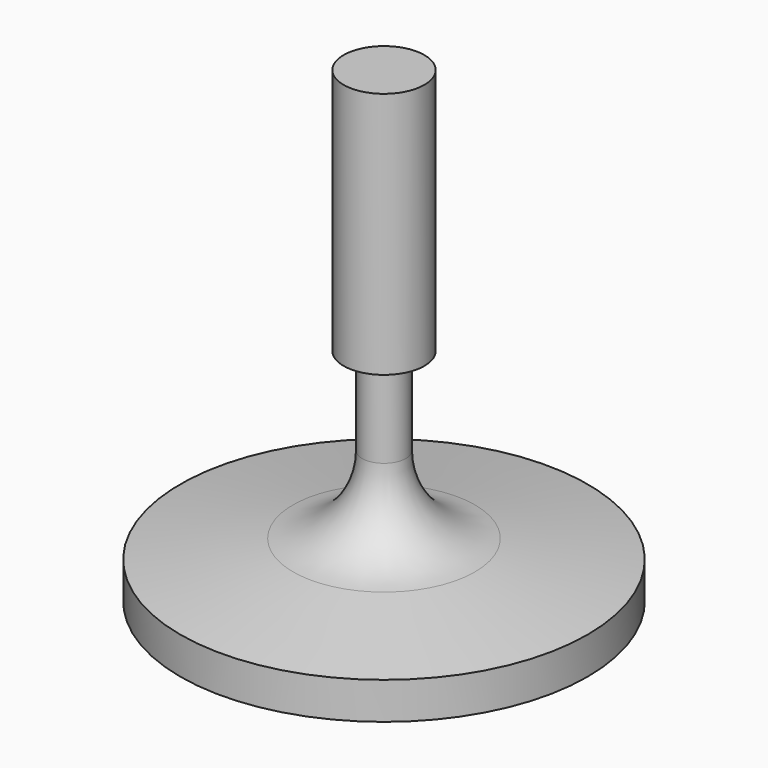
from build123d import *


with BuildPart() as f1:
    # F0 (on Front) → F1 (revolve)
    with BuildSketch(Plane.XZ):
        with BuildLine():
            Line((6.096, 70.611998), (0, 70.611998))
            Line((0, 70.611998), (0, 0))
            Line((0, 0), (30.734759, 0))
            Line((30.734759, 0), (30.734759, 5.587876))
            Line((30.734759, 5.587876), (13.716002, 8.382))
            ThreePointArc((13.716002, 8.382), (6.28337, 12.240285), (3.302001, 20.066001))
            Line((3.302001, 20.066001), (3.302001, 33.274001))
            Line((3.302001, 33.274001), (6.096, 33.274001))
            Line((6.096, 33.274001), (6.096, 70.611998))
        make_face()
    revolve(axis=Axis((0, 0, 35.305999), (0, 0, -1)))


solid = f1.part
